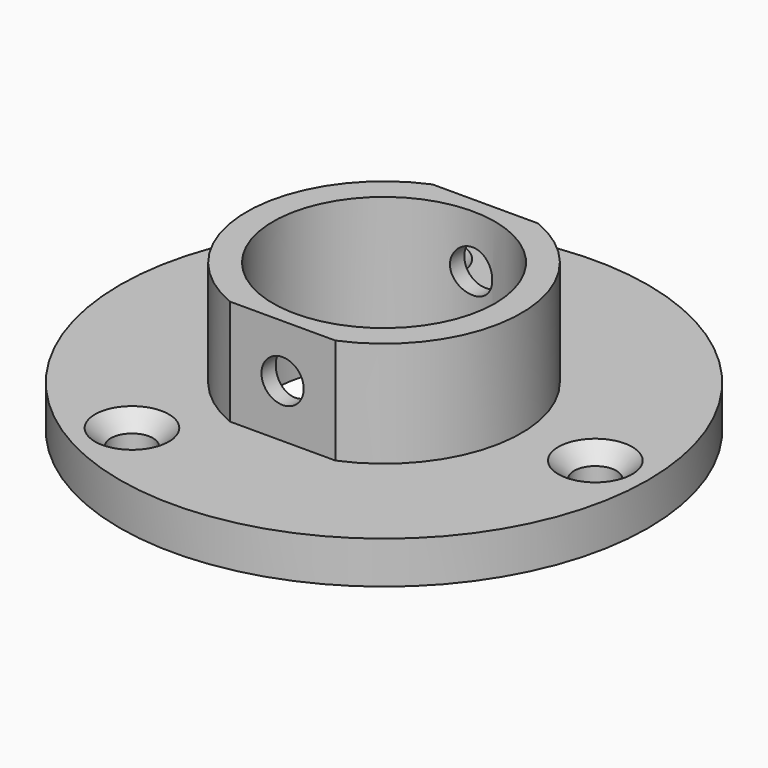
from build123d import *

# Parameters (mm, degrees)
F0_R           = 25
F0_R_2         = 10.5
F1_DEPTH       = 4
F2_R           = 10.5
F3_DEPTH       = 10
F5_D           = 4
F5_CSINK_D     = 7
F5_CSINK_ANGLE = 90
F7_D           = 4


with BuildPart() as f1:
    # F0 (on Top) → F1 (new body)
    with BuildSketch(Plane.XY):
        Circle(F0_R)
        Circle(F0_R_2, mode=Mode.SUBTRACT)
    extrude(amount=F1_DEPTH)

    # F2 (on face) → F3 (join)
    with BuildSketch(Plane.XY.offset(4)):
        with BuildLine():
            Line((-5, -12), (5, -12))
            ThreePointArc((5, -12), (13, 0), (5, 12))
            Line((5, 12), (-5, 12))
            ThreePointArc((-5, 12), (-13, 0), (-5, -12))
        make_face()
        Circle(F2_R, mode=Mode.SUBTRACT)
    extrude(amount=F3_DEPTH)

    # F5 (through all)
    with Locations(Plane.XY.offset(4)):
        with Locations((-10, -17.320508), (-10, 17.320508), (20, 0)):
            CounterSinkHole(F5_D / 2, F5_CSINK_D / 2, counter_sink_angle=F5_CSINK_ANGLE)

    # F7 (through all)
    with Locations(Plane.XZ.offset(12)):
        with Locations((0, 9)):
            Hole(F7_D / 2)


solid = f1.part
